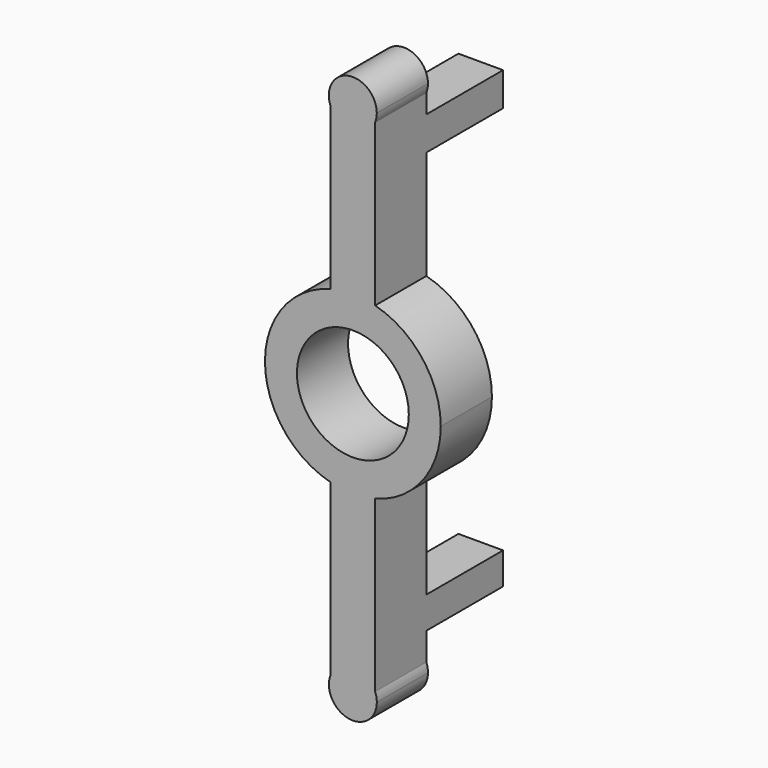
from build123d import *

# Parameters (mm, degrees)
F0_R     = 5.55625
F0_W     = 4.4338748
F0_H     = 3.3354461193
F0_W_2   = 4.4338805894
F0_H_2   = 3.1579534903
F1_DEPTH = 6.35
F2_DEPTH = 9.525


with BuildPart() as f1:
    # F0 (on Front) → F1 (new body)
    with BuildSketch(Plane.XZ):
        with BuildLine():
            ThreePointArc((2.2169431894, -8.4451103875), (6.9134438518, -5.3328248302), (8.73125, 0))
            ThreePointArc((8.73125, 0), (6.9134420239, 5.3328271999), (2.2169374, 8.4451119073))
            ThreePointArc((2.2169374, 8.4451119073), (0, 8.73125), (-2.2169374, 8.4451119073))
            ThreePointArc((-2.2169374, 8.4451119073), (-8.73125, 0), (-2.2169374, -8.4451119073))
            ThreePointArc((-2.2169374, -8.4451119073), (2.9928e-06, -8.73125), (2.2169431894, -8.4451103875))
        make_face()
        Circle(F0_R, mode=Mode.SUBTRACT)
        with BuildLine():
            ThreePointArc((-2.2169374, 8.4451119073), (0, 8.73125), (2.2169374, 8.4451119073))
            Line((2.2169374, 8.4451119073), (2.2169374, 19.2380044443))
            Line((2.2169374, 19.2380044443), (-2.2169374, 19.2380044443))
            Line((-2.2169374, 19.2380044443), (-2.2169374, 8.4451119073))
        make_face()
        with Locations((0, 20.9057275039)):
            Rectangle(F0_W, F0_H)
        with BuildLine():
            Line((-2.2169374, 22.5734505636), (2.2169374, 22.5734505636))
            Line((2.2169374, 22.5734505636), (2.2169374, 24.4680076557))
            ThreePointArc((2.2169374, 24.4680076557), (0.0079970052, 22.9441930949), (-2.2169374, 24.444558176))
            Line((-2.2169374, 24.444558176), (-2.2169374, 22.5734505636))
        make_face()
        with BuildLine():
            ThreePointArc((-2.2169374, 24.444558176), (0.0079970052, 22.9441930949), (2.2169374, 24.4680076557))
            ThreePointArc((2.2169374, 24.4680076557), (2.3363839293, 24.8893342153), (2.3766534396, 25.3254097933))
            ThreePointArc((2.3766534396, 25.3254097933), (-0.4530466345, 27.6640512993), (-2.2169374, 24.444558176))
        make_face()
        with BuildLine():
            ThreePointArc((2.38125, -26.1828773278), (2.3398127631, -25.7405790163), (2.2169431894, -25.3136739814))
            ThreePointArc((2.2169431894, -25.3136739814), (7.9302e-06, -23.8016273278), (-2.2169374, -25.3136592154))
            ThreePointArc((-2.2169374, -25.3136592154), (-0.4423061037, -28.5226886179), (2.38125, -26.1828773278))
        make_face()
        with BuildLine():
            Line((2.2169431894, -19.4155004973), (2.2169431894, -8.4451103875))
            ThreePointArc((2.2169431894, -8.4451103875), (2.9928e-06, -8.73125), (-2.2169374, -8.4451119073))
            Line((-2.2169374, -8.4451119073), (-2.2169374, -19.4155004973))
            Line((-2.2169374, -19.4155004973), (2.2169431894, -19.4155004973))
        make_face()
        with Locations((2.8947e-06, -20.9944772424)):
            Rectangle(F0_W_2, F0_H_2)
        with BuildLine():
            Line((2.2169431894, -25.3136739814), (2.2169431894, -22.5734539875))
            Line((2.2169431894, -22.5734539875), (-2.2169374, -22.5734539875))
            Line((-2.2169374, -22.5734539875), (-2.2169374, -25.3136592154))
            ThreePointArc((-2.2169374, -25.3136592154), (7.9302e-06, -23.8016273278), (2.2169431894, -25.3136739814))
        make_face()
    extrude(amount=F1_DEPTH)

    # F0 (on Front) → F2 (join)
    with BuildSketch(Plane.XZ):
        with Locations((0, 20.9057275039)):
            Rectangle(F0_W, F0_H)
        with Locations((2.8947e-06, -20.9944772424)):
            Rectangle(F0_W_2, F0_H_2)
    extrude(amount=-F2_DEPTH)


solid = f1.part
